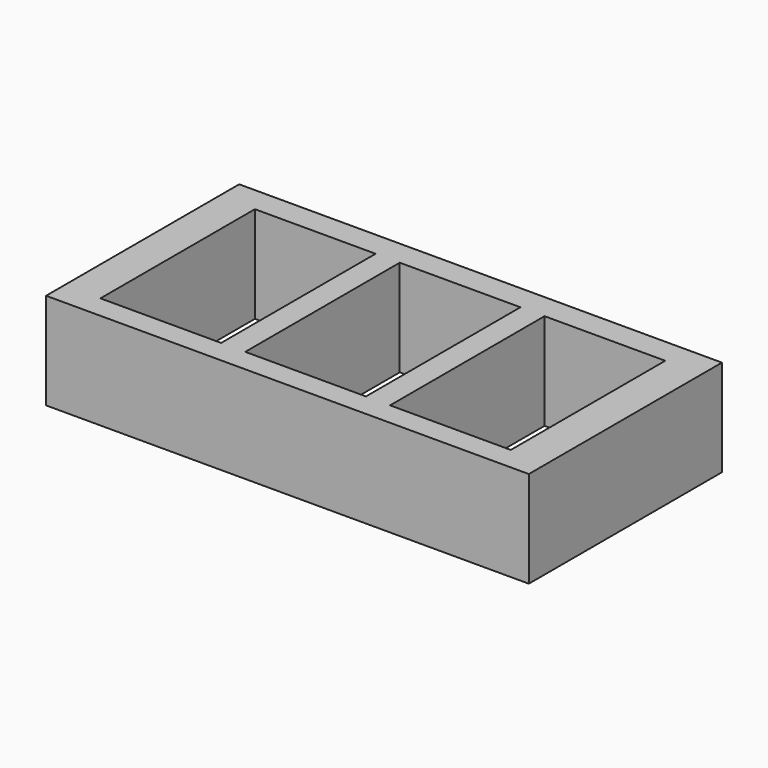
from build123d import *

# Parameters (mm, degrees)
SKETCH_W   = 100
SKETCH_H   = 50
SKETCH_W_2 = 25
SKETCH_H_2 = 40
PAD_DEPTH  = 20


with BuildPart() as part:
    # Sketch → Pad (new body)
    with BuildSketch(Plane.XY):
        with Locations((0.264387, 0.19665)):
            Rectangle(SKETCH_W, SKETCH_H)
        with Locations((-29.796774, -0.02574)):
            Rectangle(SKETCH_W_2, SKETCH_H_2, mode=Mode.SUBTRACT)
        with Locations((0.203226, -0.02574)):
            Rectangle(SKETCH_W_2, SKETCH_H_2, mode=Mode.SUBTRACT)
        with Locations((30.203226, -0.02574)):
            Rectangle(SKETCH_W_2, SKETCH_H_2, mode=Mode.SUBTRACT)
    extrude(amount=PAD_DEPTH)


solid = part.part
